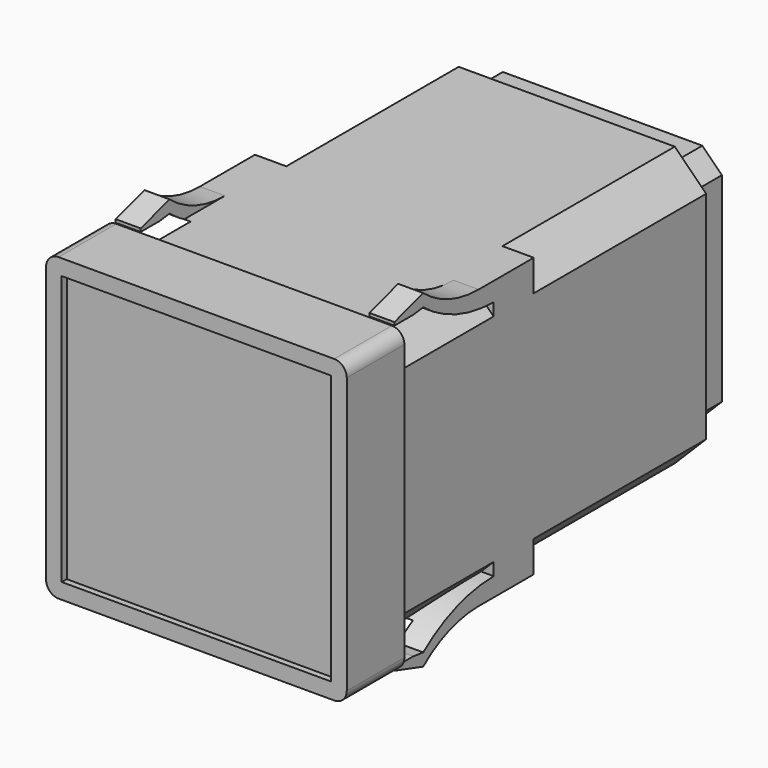
from build123d import *

# Parameters (mm, degrees)
F0_W      = 48
F0_H      = 48
F1_DEPTH  = 11.5
F2_W      = 43
F2_H      = 43
F3_DEPTH  = 1
F4_R      = 2
F5_W      = 44.5
F5_H      = 44.5
F6_DEPTH  = 62.4
F7_SIZE   = 5
F9_DEPTH  = 7.15
F11_DEPTH = 44.5
F13_DEPTH = 25
F15_DEPTH = 25


with BuildPart() as f1:
    # F0 (on Front) → F1 (new body)
    with BuildSketch(Plane.XZ):
        with Locations((24, 24)):
            Rectangle(F0_W, F0_H)
    extrude(amount=F1_DEPTH)

    # F2 (on face) → F3 (cut)
    with BuildSketch(Plane.XZ.offset(11.5)):
        with Locations((24, 24)):
            Rectangle(F2_W, F2_H)
    extrude(amount=-F3_DEPTH, mode=Mode.SUBTRACT)

    # F4
    f4_edges = [f1.edges().sort_by_distance(p)[0] for p in [
        (0, -5.75, 48),
        (48, -5.75, 48),
        (48, -5.75, 0),
        (0, -5.75, 0),
    ]]
    fillet(f4_edges, radius=F4_R)

    # F5 (on face) → F6 (join)
    with BuildSketch(Plane(origin=(0, 0, 0), x_dir=(-1, 0, 0), z_dir=(0, 1, 0))):
        with Locations((-24, 24)):
            Rectangle(F5_W, F5_H)
    extrude(amount=F6_DEPTH)

    # F7
    f7_edges = [f1.edges().sort_by_distance(p)[0] for p in [
        (46.25, 31.2, 46.25),
        (1.75, 31.2, 46.25),
        (46.25, 31.2, 1.75),
        (1.75, 31.2, 1.75),
    ]]
    chamfer(f7_edges, length=F7_SIZE)

    # F8 (on face) → F9 (join)
    with BuildSketch(Plane(origin=(0, 62.4, 0), x_dir=(-1, 0, 0), z_dir=(0, 1, 0))):
        Polygon((-4.95, 8.075483), (-4.95, 39.924517), (-8.075483, 43.05), (-39.924517, 43.05), (-43.05, 39.924517), (-43.05, 8.075483), (-39.924517, 4.95), (-8.075483, 4.95), align=None)
    extrude(amount=F9_DEPTH)

    # F10 (on face) → F11 (join, through all)
    with BuildSketch(Plane.YZ.offset(46.25)):
        with BuildLine():
            Line((20, 43.25), (20, 41.25))
            Line((20, 41.25), (28, 41.25))
            Line((28, 41.25), (28, 46.25))
            Line((28, 46.25), (20, 46.25))
            Line((20, 46.25), (17.004263, 46.25))
            ThreePointArc((17.004263, 46.25), (11.12186, 47.280701), (5.940328, 50.25))
            Line((5.940328, 50.25), (0.201208, 48.5))
            Line((0.201208, 48.5), (0.201208, 48))
            Line((0.201208, 48), (3.956015, 48))
            Line((3.956015, 48), (5.940328, 48.25))
            ThreePointArc((5.940328, 48.25), (12.551397, 44.572455), (20, 43.25))
        make_face()
        with BuildLine():
            Line((3.956015, 0), (0.201208, 0))
            Line((0.201208, 0), (0.201208, -0.5))
            Line((0.201208, -0.5), (5.940328, -2.25))
            ThreePointArc((5.940328, -2.25), (11.12186, 0.719299), (17.004263, 1.75))
            Line((17.004263, 1.75), (20, 1.75))
            Line((20, 1.75), (28, 1.75))
            Line((28, 1.75), (28, 6.75))
            Line((28, 6.75), (20, 6.75))
            Line((20, 6.75), (20, 4.75))
            ThreePointArc((20, 4.75), (12.551397, 3.427545), (5.940328, -0.25))
            Line((5.940328, -0.25), (3.956015, 0))
        make_face()
    extrude(amount=-F11_DEPTH)

    # F12 (on face) → F13 (cut)
    with BuildSketch(Plane.XY.offset(46.25)):
        Polygon((41.25, 17.004263), (41.25, 28), (24, 28), (6.75, 28), (6.75, 17.004263), (5.75, 17.004263), (5.75, 0), (6.75, 0), (41.25, 0), (42.25, 0), (42.25, 17.004263), align=None)
    extrude(amount=F13_DEPTH, mode=Mode.SUBTRACT)

    # F14 (on face) → F15 (cut)
    with BuildSketch(Plane(origin=(0, 0, 1.75), x_dir=(1, 0, 0), z_dir=(0, 0, -1))):
        Polygon((41.25, -17.004263), (42.25, -17.004263), (42.25, 0), (41.25, 0), (6.75, 0), (5.75, 0), (5.75, -17.004263), (6.75, -17.004263), (6.75, -28), (41.25, -28), align=None)
    extrude(amount=F15_DEPTH, mode=Mode.SUBTRACT)


solid = f1.part
